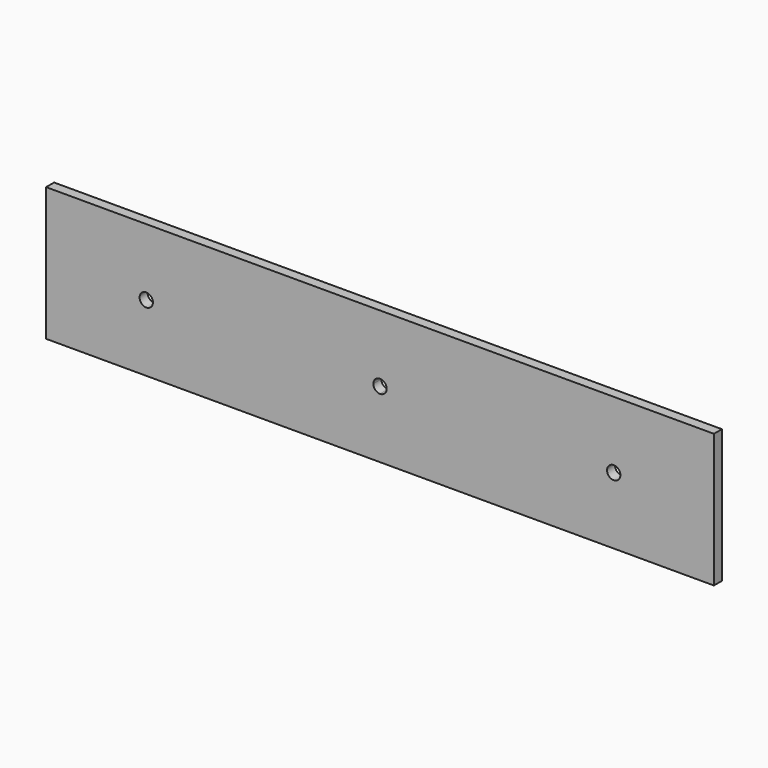
from build123d import *

# Parameters (mm, degrees)
F0_W     = 254
F0_H     = 50.8
F1_DEPTH = 3.81
F3_DEPTH = 25.4


with BuildPart() as f1:
    # F0 (on Front) → F1 (new body)
    with BuildSketch(Plane.XZ):
        Rectangle(F0_W, F0_H)
    extrude(amount=F1_DEPTH)

    # F2 (on face) → F3 (cut)
    with BuildSketch(Plane.XZ.offset(3.81)):
        with BuildLine():
            ThreePointArc((-91.44, 0), (-88.9, -2.54), (-86.36, 0))
            ThreePointArc((-86.36, 0), (-88.9, 2.54), (-91.44, 0))
        make_face()
        with BuildLine():
            ThreePointArc((91.44, 0), (88.9, 2.54), (86.36, 0))
            ThreePointArc((86.36, 0), (88.9, -2.54), (91.44, 0))
        make_face()
        with BuildLine():
            ThreePointArc((0, 2.54), (-1.796051, 1.796051), (-2.54, 0))
            ThreePointArc((-2.54, 0), (-1.796051, -1.796051), (0, -2.54))
            ThreePointArc((0, -2.54), (1.796051, -1.796051), (2.54, 0))
            ThreePointArc((2.54, 0), (1.796051, 1.796051), (0, 2.54))
        make_face()
    extrude(amount=-F3_DEPTH, mode=Mode.SUBTRACT)


solid = f1.part
